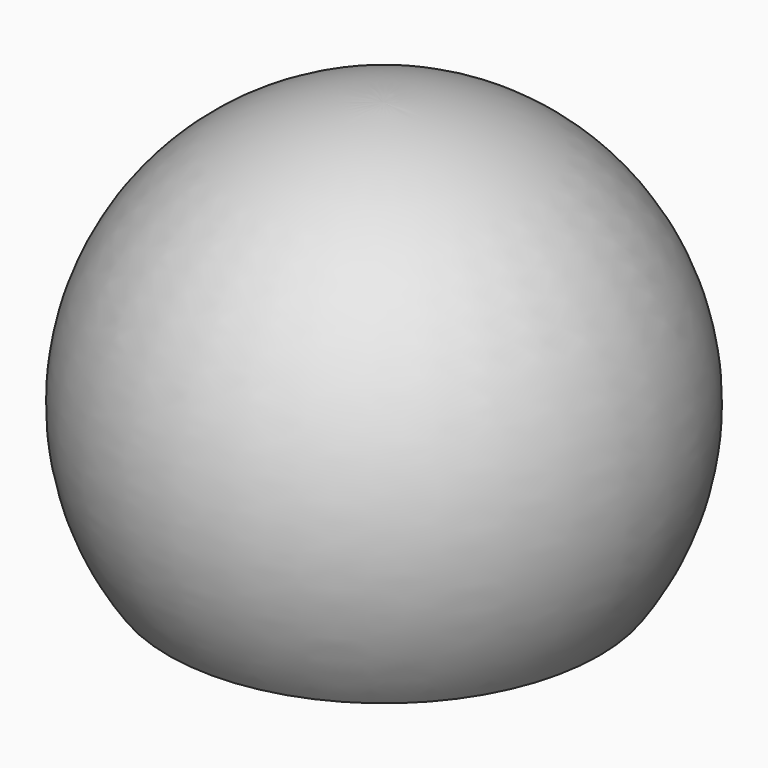
from build123d import *


with BuildPart() as f1:
    # F0 (on Front) → F1 (revolve)
    with BuildSketch(Plane.XZ):
        with BuildLine():
            ThreePointArc((0, 32.5), (28.504386, 15.612495), (27.386128, -17.5))
            Line((27.386128, -17.5), (0, -17.5))
            Line((0, -17.5), (0, -20.5))
            Line((0, -20.5), (28.982753, -20.5))
            ThreePointArc((28.982753, -20.5), (31.527766, 16.317169), (0, 35.5))
            Line((0, 35.5), (0, 32.5))
        make_face()
    revolve(axis=Axis((0, 0, 5.032783), (0, 0, -1)))


solid = f1.part
